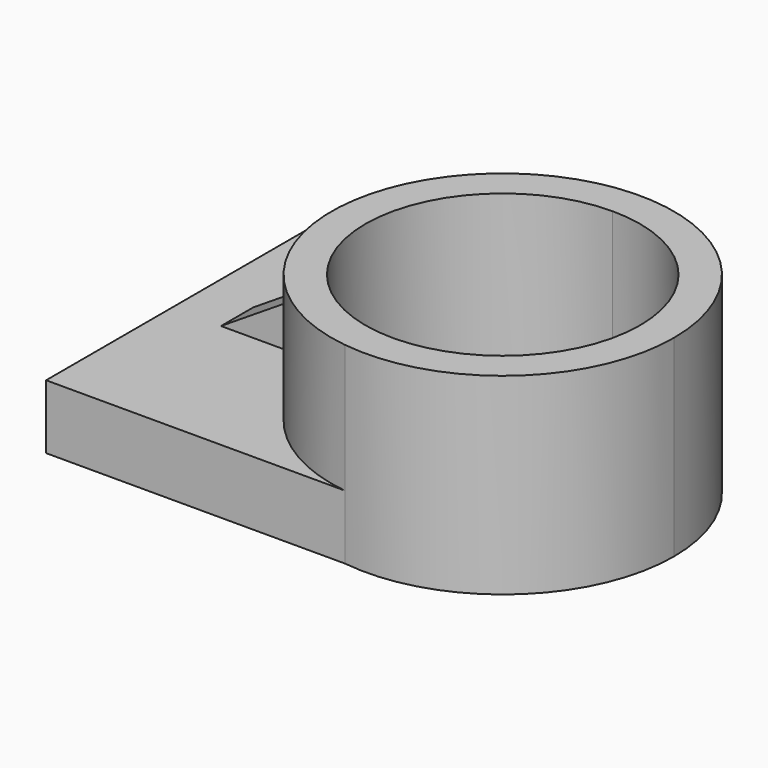
from build123d import *

# Parameters (mm, degrees)
F1_DEPTH = 12.7
F2_DEPTH = 38.1
F3_W     = 19.9459594991
F3_H     = 7.9969605431
F4_DEPTH = 12.7
F6_DEPTH = 25.4


with BuildPart() as f1:
    # F0 (on Top) → F1 (new body)
    with BuildSketch(Plane.XY):
        with BuildLine():
            Line((10.3908990951, 36.1372716725), (-48.721820116, 36.1372716725))
            Line((-48.721820116, 36.1372716725), (-48.721820116, -31.0572721064))
            Line((-48.721820116, -31.0572721064), (10.3908990951, -31.0572721064))
            ThreePointArc((10.3908990951, -31.0572721064), (-19.1043346565, 2.539999783), (10.3908990951, 36.1372716725))
        make_face()
    extrude(amount=F1_DEPTH)

    # F0 (on Top) → F2 (join)
    with BuildSketch(Plane.XY):
        with BuildLine():
            ThreePointArc((48.6606984776, 2.539999783), (37.1318476752, 28.0024929013), (10.3908990951, 36.1372716725))
            Line((10.3908990951, 36.1372716725), (14.7781819105, 36.1372716725))
            Line((14.7781819105, 36.1372716725), (14.7781819105, 29.7147905973))
            ThreePointArc((14.7781819105, 29.7147905973), (33.9936607726, 21.7554786451), (41.9529727248, 2.539999783))
            ThreePointArc((41.9529727248, 2.539999783), (33.9936607726, -16.675479079), (14.7781819105, -24.6347910312))
            Line((14.7781819105, -24.6347910312), (14.7781819105, -31.0572721064))
            Line((14.7781819105, -31.0572721064), (10.3908990951, -31.0572721064))
            ThreePointArc((10.3908990951, -31.0572721064), (37.1318476752, -22.9224933352), (48.6606984776, 2.539999783))
        make_face()
        with BuildLine():
            Line((14.7781819105, 36.1372716725), (10.3908990951, 36.1372716725))
            ThreePointArc((10.3908990951, 36.1372716725), (-19.1043346565, 2.539999783), (10.3908990951, -31.0572721064))
            Line((10.3908990951, -31.0572721064), (14.7781819105, -31.0572721064))
            Line((14.7781819105, -31.0572721064), (14.7781819105, -24.6347910312))
            ThreePointArc((14.7781819105, -24.6347910312), (-12.3966089037, 2.539999783), (14.7781819105, 29.7147905973))
            Line((14.7781819105, 29.7147905973), (14.7781819105, 36.1372716725))
        make_face()
    extrude(amount=F2_DEPTH)

    # F3 (on face) → F4 (join)
    with BuildSketch(Plane.XY.offset(12.7)):
        with Locations((-28.9819748448, 3.9984802715)):
            Rectangle(F3_W, F3_H)
    extrude(amount=F4_DEPTH)

    # F5 (on face) → F6 (cut)
    with BuildSketch(Plane.XZ):
        Polygon((-38.9549545944, 12.7), (-19.0089950952, 25.4), (-38.9549545944, 25.4), align=None)
    extrude(amount=-F6_DEPTH, mode=Mode.SUBTRACT)


solid = f1.part
